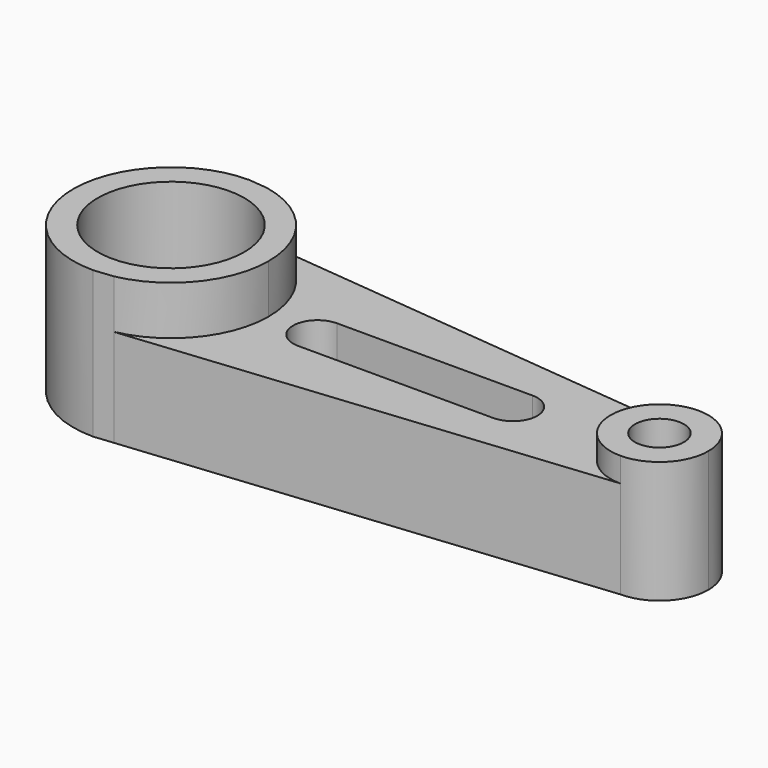
from build123d import *

# Parameters (mm, degrees)
F0_R     = 19.05
F1_DEPTH = 38.1
F2_DEPTH = 25.4
F0_R_2   = 6.35
F3_DEPTH = 31.75


with BuildPart() as f1:
    # F0 (on Top) → F1 (new body)
    with BuildSketch(Plane.XY):
        with BuildLine():
            Line((-107.260471, 32.351975), (-112.290174, 32.854946))
            ThreePointArc((-112.290174, 32.854946), (-137.690174, 7.454946), (-112.290174, -17.945054))
            Line((-112.290174, -17.945054), (-107.260471, -17.442084))
            ThreePointArc((-107.260471, -17.442084), (-92.631658, -8.629294), (-86.890174, 7.454946))
            ThreePointArc((-86.890174, 7.454946), (-92.631658, 23.539186), (-107.260471, 32.351975))
        make_face()
        with Locations((-112.290174, 7.454946)):
            Circle(F0_R, mode=Mode.SUBTRACT)
    extrude(amount=F1_DEPTH)

    # F0 (on Top) → F2 (join)
    with BuildSketch(Plane.XY):
        with BuildLine():
            Line((14.709826, 20.154946), (-107.260471, 32.351975))
            ThreePointArc((-107.260471, 32.351975), (-92.631658, 23.539186), (-86.890174, 7.454946))
            ThreePointArc((-86.890174, 7.454946), (-92.631658, -8.629294), (-107.260471, -17.442084))
            Line((-107.260471, -17.442084), (14.709826, -5.245054))
            ThreePointArc((14.709826, -5.245054), (2.009826, 7.454946), (14.709826, 20.154946))
        make_face()
        with BuildLine():
            Line((-74.190174, 13.804946), (-23.390174, 13.804946))
            ThreePointArc((-23.390174, 13.804946), (-17.040174, 7.454946), (-23.390174, 1.104946))
            Line((-23.390174, 1.104946), (-74.190174, 1.104946))
            ThreePointArc((-74.190174, 1.104946), (-80.540174, 7.454946), (-74.190174, 13.804946))
        make_face(mode=Mode.SUBTRACT)
    extrude(amount=F2_DEPTH)

    # F0 (on Top) → F3 (join)
    with BuildSketch(Plane.XY):
        with BuildLine():
            ThreePointArc((27.409826, 7.454946), (23.690082, 16.435202), (14.709826, 20.154946))
            ThreePointArc((14.709826, 20.154946), (2.009826, 7.454946), (14.709826, -5.245054))
            ThreePointArc((14.709826, -5.245054), (23.690082, -1.52531), (27.409826, 7.454946))
        make_face()
        with Locations((14.709826, 7.454946)):
            Circle(F0_R_2, mode=Mode.SUBTRACT)
    extrude(amount=F3_DEPTH)


solid = f1.part
